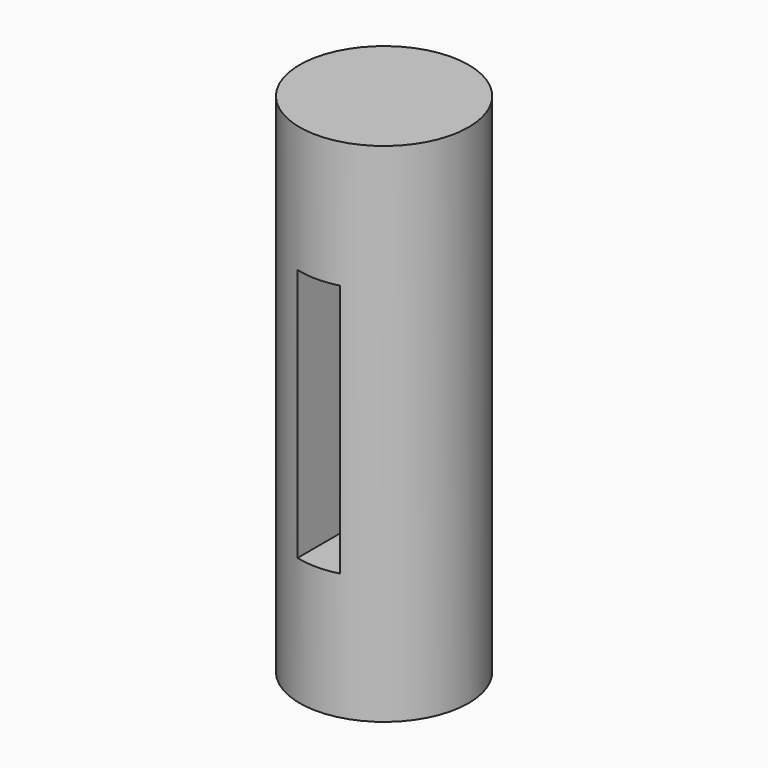
from build123d import *

# Parameters (mm, degrees)
F0_R      = 25.4
F1_DEPTH  = 152.4
F2_W      = 12.7
F2_H      = 76.2
F3_DEPTH  = 25.4
F4_W      = 12.7
F4_H      = 76.2
F5_DEPTH  = 38.1
F5_FACE_W = 6.35
F5_FACE_H = 76.2
F6_DEPTH  = 6.35


with BuildPart() as f1:
    # F0 (on Top) → F1 (new body)
    with BuildSketch(Plane.XY):
        Circle(F0_R)
    extrude(amount=F1_DEPTH)

    # F2 (on Right) → F3 (cut)
    with BuildSketch(Plane.YZ):
        with Locations((0, 76.2)):
            Rectangle(F2_W, F2_H)
    extrude(amount=-F3_DEPTH, mode=Mode.SUBTRACT)

    # F4 (on Front) → F5 (cut)
    with BuildSketch(Plane.XZ):
        with Locations((0, 76.2)):
            Rectangle(F4_W, F4_H)
    extrude(amount=F5_DEPTH, mode=Mode.SUBTRACT)

    # F5_face (on face) → F6 (cut)
    with BuildSketch(Plane(origin=(3.175, 0, 76.2), x_dir=(1, 0, 0), z_dir=(0, -1, 0))):
        Rectangle(F5_FACE_W, F5_FACE_H)
    extrude(amount=-F6_DEPTH, mode=Mode.SUBTRACT)


solid = f1.part
